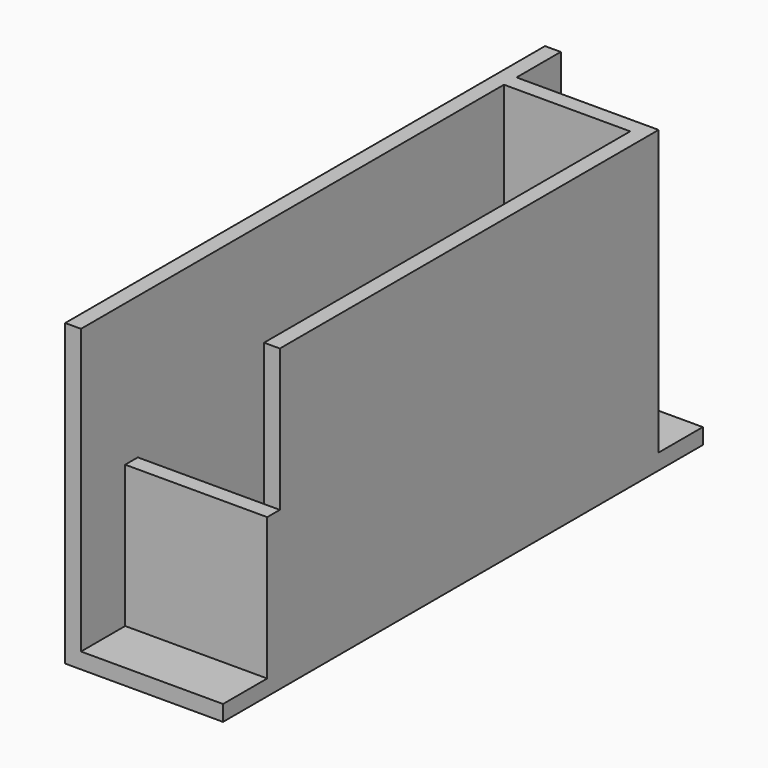
from build123d import *

# Parameters (mm, degrees)
F0_W     = 20
F0_H     = 7
F0_H_2   = 62
F0_W_2   = 16
F0_H_3   = 58
F1_DEPTH = 2
F2_DEPTH = 36
F3_W     = 2
F3_H     = 36
F4_DEPTH = 7
F5_W     = 2
F5_H     = 36
F6_DEPTH = 7
F7_W     = 18
F7_H     = 2
F8_DEPTH = 18


with BuildPart() as f1:
    # F0 (on Top) → F1 (new body)
    with BuildSketch(Plane.XY):
        with Locations((8, 63.5)):
            Rectangle(F0_W, F0_H)
        with Locations((8, 29)):
            Rectangle(F0_W, F0_H_2)
        with Locations((8, 29)):
            Rectangle(F0_W_2, F0_H_3, mode=Mode.SUBTRACT)
        with Locations((8, 29)):
            Rectangle(F0_W_2, F0_H_3)
        with Locations((8, -5.5)):
            Rectangle(F0_W, F0_H)
    extrude(amount=-F1_DEPTH)

    # F0 (on Top) → F2 (join)
    with BuildSketch(Plane.XY):
        with Locations((8, 29)):
            Rectangle(F0_W, F0_H_2)
        with Locations((8, 29)):
            Rectangle(F0_W_2, F0_H_3, mode=Mode.SUBTRACT)
    extrude(amount=F2_DEPTH)

    # F3 (on face) → F4 (join)
    with BuildSketch(Plane.XZ.offset(2)):
        with Locations((-1, 18)):
            Rectangle(F3_W, F3_H)
    extrude(amount=F4_DEPTH)

    # F5 (on face) → F6 (join)
    with BuildSketch(Plane(origin=(0, 60, 0), x_dir=(-1, 0, 0), z_dir=(0, 1, 0))):
        with Locations((1, 18)):
            Rectangle(F5_W, F5_H)
    extrude(amount=F6_DEPTH)

    # F7 (on face) → F8 (cut)
    with BuildSketch(Plane.XY.offset(36)):
        with Locations((9, -1)):
            Rectangle(F7_W, F7_H)
    extrude(amount=-F8_DEPTH, mode=Mode.SUBTRACT)


solid = f1.part
